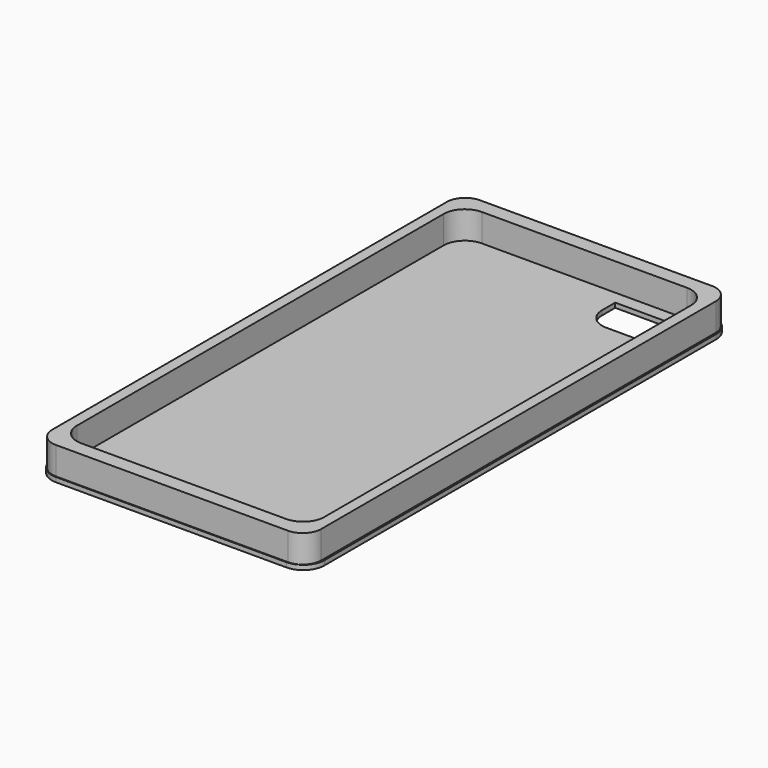
from build123d import *

# Parameters (mm, degrees)
F1_W     = 68.8515231013
F1_H     = 100.0347808003
F2_DEPTH = 1.27
F3_DEPTH = 7.62
F4_DEPTH = 2.54


with BuildPart() as f2:
    # F1 (on Top) → F2 (new body)
    with BuildSketch(Plane.XY):
        with BuildLine():
            ThreePointArc((-37.5236049294, -67.3895406203), (-35.8125227451, -71.520458436), (-31.6816049294, -73.2315406203))
            Line((-31.6816049294, -73.2315406203), (31.6816049294, -73.2315406203))
            ThreePointArc((31.6816049294, -73.2315406203), (35.8125227451, -71.520458436), (37.5236049294, -67.3895406203))
            Line((37.5236049294, -67.3895406203), (37.5236049294, 67.3895406203))
            ThreePointArc((37.5236049294, 67.3895406203), (35.8125227451, 71.520458436), (31.6816049294, 73.2315406203))
            Line((31.6816049294, 73.2315406203), (-31.6816049294, 73.2315406203))
            ThreePointArc((-31.6816049294, 73.2315406203), (-35.8125227451, 71.520458436), (-37.5236049294, 67.3895406203))
            Line((-37.5236049294, 67.3895406203), (-37.5236049294, -67.3895406203))
        make_face()
        Rectangle(F1_W, F1_H, mode=Mode.SUBTRACT)
        with BuildLine():
            Line((11.3956173882, 65.3541386127), (30.0525762141, 65.3541386127))
            Line((30.0525762141, 65.3541386127), (30.0525762141, 55.0315789878))
            Line((30.0525762141, 55.0315789878), (17.2376173882, 55.0315789878))
            ThreePointArc((17.2376173882, 55.0315789878), (13.1066995725, 56.7426611721), (11.3956173882, 60.8735789878))
            Line((11.3956173882, 60.8735789878), (11.3956173882, 65.3541386127))
        make_face(mode=Mode.SUBTRACT)
    extrude(amount=-F2_DEPTH)

    # F0 (on Top) → F3 (join)
    with BuildSketch(Plane.XY):
        with BuildLine():
            Line((31.9594252241, 72.9894563556), (-31.9594252241, 72.9894563556))
            ThreePointArc((-31.9594252241, 72.9894563556), (-35.5515276725, 71.501558804), (-37.0394252241, 67.9094563556))
            Line((-37.0394252241, 67.9094563556), (-37.0394252241, -67.9094563556))
            ThreePointArc((-37.0394252241, -67.9094563556), (-35.5515276725, -71.501558804), (-31.9594252241, -72.9894563556))
            Line((-31.9594252241, -72.9894563556), (31.9594252241, -72.9894563556))
            ThreePointArc((31.9594252241, -72.9894563556), (35.5515276725, -71.501558804), (37.0394252241, -67.9094563556))
            Line((37.0394252241, -67.9094563556), (37.0394252241, 67.9094563556))
            ThreePointArc((37.0394252241, 67.9094563556), (35.5515276725, 71.501558804), (31.9594252241, 72.9894563556))
        make_face()
        with BuildLine():
            Line((-28.2269942241, 68.9697414637), (28.2269942241, 68.9697414637))
            ThreePointArc((28.2269942241, 68.9697414637), (32.3579120398, 67.2586592794), (34.0689942241, 63.1277414637))
            Line((34.0689942241, 63.1277414637), (34.0689942241, -63.1277414637))
            ThreePointArc((34.0689942241, -63.1277414637), (32.3579120398, -67.2586592794), (28.2269942241, -68.9697414637))
            Line((28.2269942241, -68.9697414637), (-28.2269942241, -68.9697414637))
            ThreePointArc((-28.2269942241, -68.9697414637), (-32.3579120398, -67.2586592794), (-34.0689942241, -63.1277414637))
            Line((-34.0689942241, -63.1277414637), (-34.0689942241, 63.1277414637))
            ThreePointArc((-34.0689942241, 63.1277414637), (-32.3579120398, 67.2586592794), (-28.2269942241, 68.9697414637))
        make_face(mode=Mode.SUBTRACT)
    extrude(amount=F3_DEPTH)

    # F1 (on Top) → F4 (join)
    with BuildSketch(Plane.XY):
        Rectangle(F1_W, F1_H)
    extrude(amount=-F4_DEPTH)


solid = f2.part
